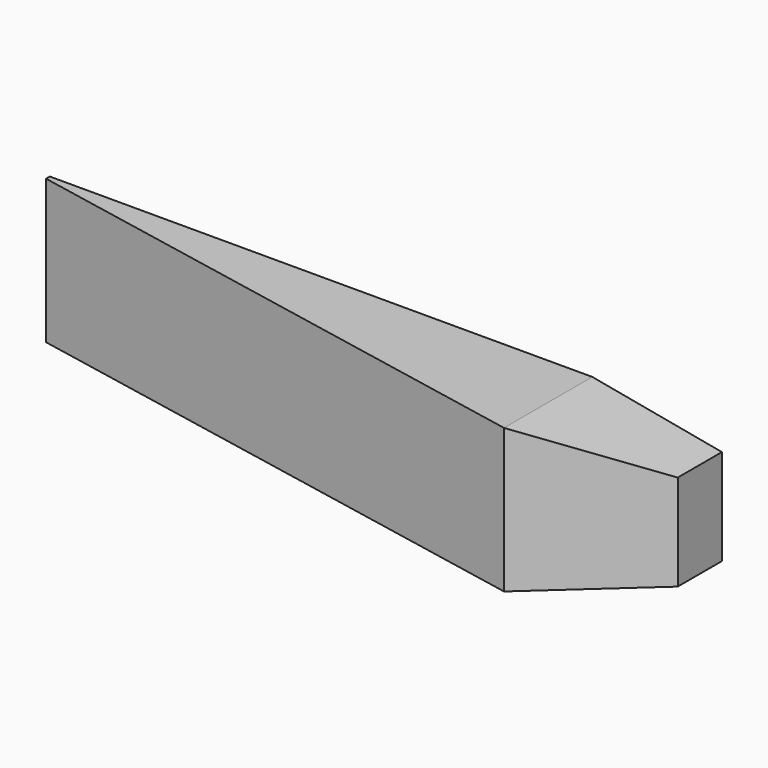
from build123d import *

# Parameters (mm, degrees)
F1_DEPTH = 30
F3_DEPTH = 25


with BuildPart() as f1:
    # F0 (on Top) → F1 (new body)
    with BuildSketch(Plane.XY):
        Polygon((145, 0), (5, 0), (5, -0.974576), (118, -23), (145, -11.5), align=None)
    extrude(amount=F1_DEPTH)

    # F2 (on Front) → F3 (cut)
    with BuildSketch(Plane.XZ):
        Polygon((118, 0), (145, 0), (145, 5), align=None)
        Polygon((145, 30), (118, 30), (145, 25), align=None)
    extrude(amount=F3_DEPTH, mode=Mode.SUBTRACT)


solid = f1.part
